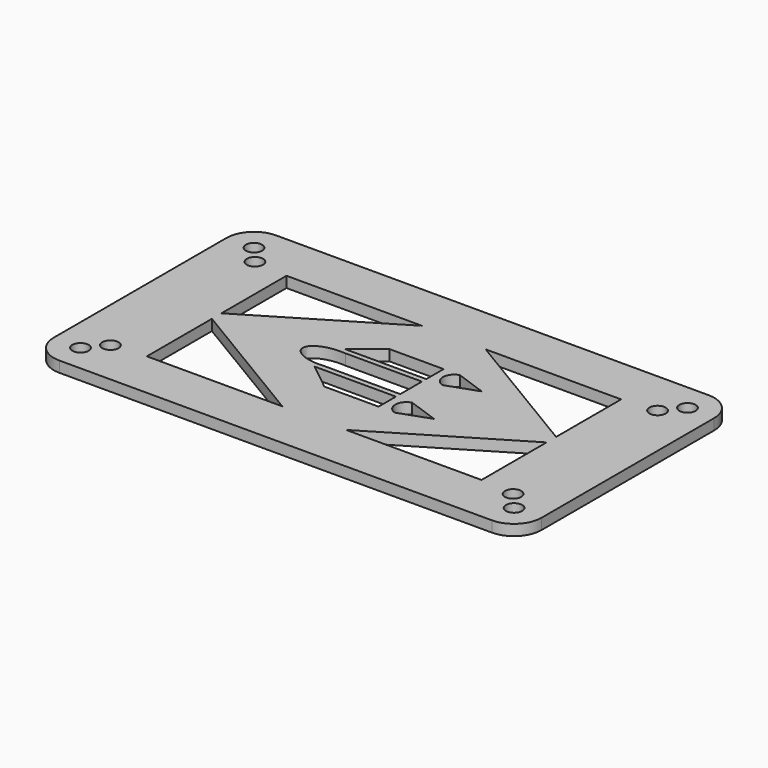
from build123d import *

# Parameters (mm, degrees)
F0_W      = 90
F0_H      = 50
F1_DEPTH  = 2
F3_R      = 5.08
F4_R      = 5.08
F5_R      = 5.08
F6_R      = 5.08
F8_R      = 1.5
F9_DEPTH  = 25.4
F10_W     = 10
F10_H     = 4
F11_DEPTH = 25.4
F13_DEPTH = 25.4


with BuildPart() as f1:
    # F0 (on Top) → F1 (new body)
    with BuildSketch(Plane.XY):
        with Locations((45, 25)):
            Rectangle(F0_W, F0_H)
    extrude(amount=F1_DEPTH)

    # F3
    f3_edges = [f1.edges().sort_by_distance(p)[0] for p in [
        (90, 0, 1),
    ]]
    fillet(f3_edges, radius=F3_R)

    # F4
    f4_edges = [f1.edges().sort_by_distance(p)[0] for p in [
        (90, 50, 1),
    ]]
    fillet(f4_edges, radius=F4_R)

    # F5
    f5_edges = [f1.edges().sort_by_distance(p)[0] for p in [
        (0, 50, 1),
    ]]
    fillet(f5_edges, radius=F5_R)

    # F6
    f6_edges = [f1.edges().sort_by_distance(p)[0] for p in [
        (0, 0, 1),
    ]]
    fillet(f6_edges, radius=F6_R)

    # F8 (on offset) → F9 (cut)
    with BuildSketch(Plane.XY.offset(2)):
        with Locations((85, 5)):
            Circle(F8_R)
        with Locations((82.1494022449, 8.3385913854)):
            Circle(F8_R)
        with Locations((82.1494022449, 41.6614086146)):
            Circle(F8_R)
        with Locations((85, 45)):
            Circle(F8_R)
        with Locations((7.8505977551, 41.6614086146)):
            Circle(F8_R)
        with Locations((5, 45)):
            Circle(F8_R)
        with Locations((7.8505977551, 8.3385913854)):
            Circle(F8_R)
        with Locations((5, 5)):
            Circle(F8_R)
    extrude(amount=-F9_DEPTH, mode=Mode.SUBTRACT)

    # F10 (on offset) → F11 (cut)
    with BuildSketch(Plane.XY.offset(2)):
        with BuildLine():
            Line((35, 22.5), (35, 27.5))
            Line((35, 27.5), (35.8850657517, 27.5))
            add(Edge.make_bspline(
                [(35.8850657517, 27.5), (29.9931568267, 28.0368228686), (29.9931568267, 25)],
                knots=[4.5346839474, 4.5346839474, 4.5346839474, 6.2831853072, 6.2831853072, 6.2831853072], degree=2, weights=[1, 0.6415718139, 1]))
            add(Edge.make_bspline(
                [(29.9931568267, 25), (29.9931568267, 21.9631771314), (35.8850657517, 22.5)],
                knots=[0, 0, 0, 1.7485013598, 1.7485013598, 1.7485013598], degree=2, weights=[1, 0.6415718139, 1]))
            Line((35.8850657517, 22.5), (35, 22.5))
        make_face()
        with BuildLine():
            Line((35.8850657517, 27.5), (35, 27.5))
            Line((35, 27.5), (35, 22.5))
            Line((35, 22.5), (35.8850657517, 22.5))
            add(Edge.make_bspline(
                [(35.8850657517, 22.5), (40.0068431733, 22.8755428686), (40.0068431733, 25), (40.0068431733, 27.1244571314), (35.8850657517, 27.5)],
                knots=[1.7485013598, 1.7485013598, 1.7485013598, 3.1415926536, 3.1415926536, 4.5346839474, 4.5346839474, 4.5346839474], degree=2, weights=[1, 0.767062975, 1, 0.767062975, 1]))
        make_face()
        with BuildLine():
            Line((50, 27.5), (35.8850657517, 27.5))
            add(Edge.make_bspline(
                [(35.8850657517, 22.5), (40.0068431733, 22.8755428686), (40.0068431733, 25), (40.0068431733, 27.1244571314), (35.8850657517, 27.5)],
                knots=[1.7485013598, 1.7485013598, 1.7485013598, 3.1415926536, 3.1415926536, 4.5346839474, 4.5346839474, 4.5346839474], degree=2, weights=[1, 0.767062975, 1, 0.767062975, 1]))
            Line((35.8850657517, 22.5), (50, 22.5))
            Line((50, 22.5), (50, 27.5))
        make_face()
        with Locations((45, 30.5)):
            Rectangle(F10_W, F10_H)
        Polygon((40, 28.5), (40, 32.5), (35, 28.5), align=None)
        Polygon((35, 21.5), (40, 17.5), (40, 21.5), align=None)
        with Locations((45, 19.5)):
            Rectangle(F10_W, F10_H)
        with BuildLine():
            Line((58.6482731998, 30.5), (53, 32.5))
            ThreePointArc((53, 32.5), (51.4781820371, 30.5), (53, 28.5))
            Line((53, 28.5), (58.6482731998, 30.5))
        make_face()
        with BuildLine():
            ThreePointArc((53, 21.5), (51.4781820371, 19.5), (53, 17.5))
            Line((53, 17.5), (58.6482731998, 19.5))
            Line((58.6482731998, 19.5), (53, 21.5))
        make_face()
    extrude(amount=-F11_DEPTH, mode=Mode.SUBTRACT)

    # F12 (on offset) → F13 (cut)
    with BuildSketch(Plane.XY.offset(2)):
        Polygon((75.8748404465, 23.8996903335), (50.8748404465, 8.8996903335), (75.8748404465, 8.8996903335), align=None)
        Polygon((50.8748404465, 41.1003096665), (75.8748404465, 26.1003096665), (75.8748404465, 41.1003096665), align=None)
        Polygon((14.1251595535, 26.1003096665), (39.1251595535, 41.1003096665), (14.1251595535, 41.1003096665), align=None)
        Polygon((39.1251595535, 8.8996903335), (14.1251595535, 23.8996903335), (14.1251595535, 8.8996903335), align=None)
    extrude(amount=-F13_DEPTH, mode=Mode.SUBTRACT)


solid = f1.part
